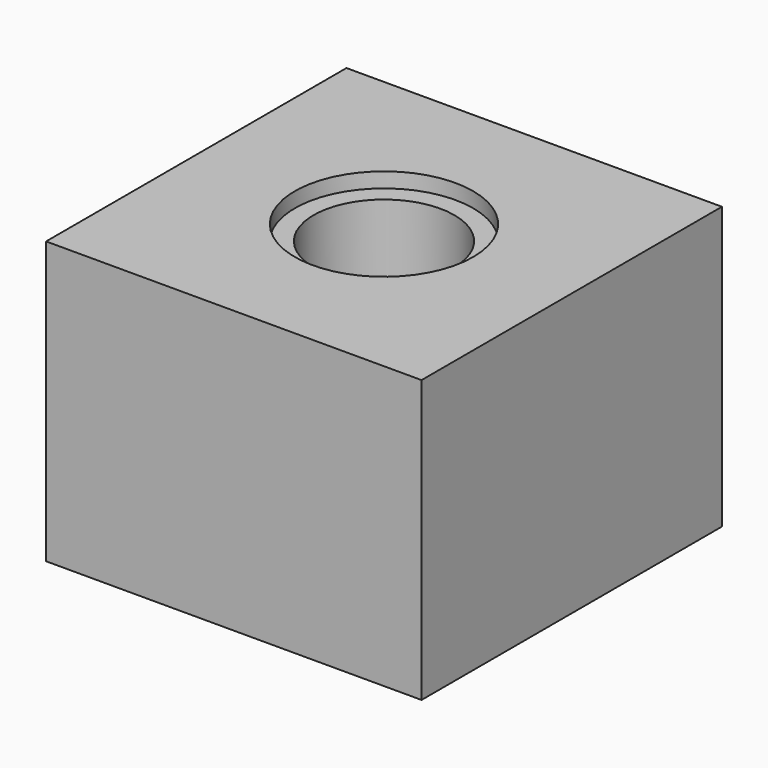
from build123d import *

# Parameters (mm, degrees)
F0_W     = 200
F0_H     = 200
F1_DEPTH = 150
F2_R     = 37.5
F3_DEPTH = 112
F4_R     = 47.5
F5_DEPTH = 8


with BuildPart() as f1:
    # F0 (on Top) → F1 (new body)
    with BuildSketch(Plane.XY):
        Rectangle(F0_W, F0_H)
    extrude(amount=F1_DEPTH)

    # F2 (on face) → F3 (cut)
    with BuildSketch(Plane.XY.offset(150)):
        Circle(F2_R)
    extrude(amount=-F3_DEPTH, mode=Mode.SUBTRACT)

    # F4 (on face) → F5 (cut)
    with BuildSketch(Plane.XY.offset(150)):
        Circle(F4_R)
    extrude(amount=-F5_DEPTH, mode=Mode.SUBTRACT)


solid = f1.part
